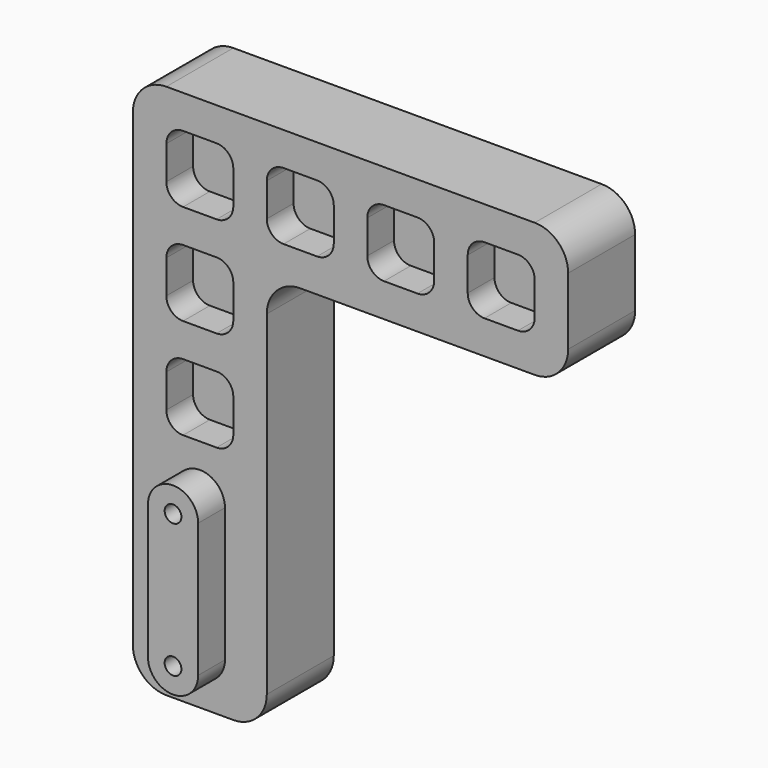
from build123d import *

# Parameters (mm, degrees)
F0_W     = 10
F0_H     = 10
F1_DEPTH = 25
F2_DEPTH = 10
F3_R     = 10
F5_DEPTH = 10
F7_D     = 5
F7_DEPTH = 11.19
F7_TIP   = 1.5021515476


with BuildPart() as f1:
    # F0 (on Front) → F1 (new body)
    with BuildSketch(Plane.XZ):
        with BuildLine():
            Line((15, -40), (0, -40))
            Line((0, -40), (0, -160))
            Line((0, -160), (40, -160))
            Line((40, -160), (40, -85))
            Line((40, -85), (40, -75))
            Line((40, -75), (40, -55))
            Line((40, -55), (40, -45))
            Line((40, -45), (40, -40))
            Line((40, -40), (25, -40))
            ThreePointArc((25, -40), (28.5355339059, -41.4644660941), (30, -45))
            Line((30, -45), (30, -55))
            ThreePointArc((30, -55), (28.5355339059, -58.5355339059), (25, -60))
            Line((25, -60), (15, -60))
            ThreePointArc((15, -60), (11.4644660941, -58.5355339059), (10, -55))
            Line((10, -55), (10, -45))
            ThreePointArc((10, -45), (11.4644660941, -41.4644660941), (15, -40))
        make_face()
        with BuildLine():
            Line((25, -90), (15, -90))
            ThreePointArc((15, -90), (11.4644660941, -88.5355339059), (10, -85))
            Line((10, -85), (10, -75))
            ThreePointArc((10, -75), (11.4644660941, -71.4644660941), (15, -70))
            Line((15, -70), (25, -70))
            ThreePointArc((25, -70), (28.5355339059, -71.4644660941), (30, -75))
            Line((30, -75), (30, -85))
            ThreePointArc((30, -85), (28.5355339059, -88.5355339059), (25, -90))
        make_face(mode=Mode.SUBTRACT)
        Polygon((40, 0), (10, 0), (10, -10), (0, -10), (0, -40), (15, -40), (25, -40), (40, -40), (40, -25), (40, -15), align=None)
        with BuildLine():
            ThreePointArc((10, -15), (11.4644660941, -11.4644660941), (15, -10))
            Line((15, -10), (25, -10))
            ThreePointArc((25, -10), (28.5355339059, -11.4644660941), (30, -15))
            Line((30, -15), (30, -25))
            ThreePointArc((30, -25), (28.5355339059, -28.5355339059), (25, -30))
            Line((25, -30), (15, -30))
            ThreePointArc((15, -30), (11.4644660941, -28.5355339059), (10, -25))
            Line((10, -25), (10, -15))
        make_face(mode=Mode.SUBTRACT)
        with Locations((5, -5)):
            Rectangle(F0_W, F0_H)
        with BuildLine():
            Line((130, 0), (40, 0))
            Line((40, 0), (40, -15))
            ThreePointArc((40, -15), (41.4644660941, -11.4644660941), (45, -10))
            Line((45, -10), (55, -10))
            ThreePointArc((55, -10), (58.5355339059, -11.4644660941), (60, -15))
            Line((60, -15), (60, -25))
            ThreePointArc((60, -25), (58.5355339059, -28.5355339059), (55, -30))
            Line((55, -30), (45, -30))
            ThreePointArc((45, -30), (41.4644660941, -28.5355339059), (40, -25))
            Line((40, -25), (40, -40))
            Line((40, -40), (45, -40))
            Line((45, -40), (55, -40))
            Line((55, -40), (75, -40))
            Line((75, -40), (85, -40))
            Line((85, -40), (105, -40))
            Line((105, -40), (115, -40))
            Line((115, -40), (130, -40))
            Line((130, -40), (130, 0))
        make_face()
        with BuildLine():
            Line((85, -30), (75, -30))
            ThreePointArc((75, -30), (71.4644660941, -28.5355339059), (70, -25))
            Line((70, -25), (70, -15))
            ThreePointArc((70, -15), (71.4644660941, -11.4644660941), (75, -10))
            Line((75, -10), (85, -10))
            ThreePointArc((85, -10), (88.5355339059, -11.4644660941), (90, -15))
            Line((90, -15), (90, -25))
            ThreePointArc((90, -25), (88.5355339059, -28.5355339059), (85, -30))
        make_face(mode=Mode.SUBTRACT)
        with BuildLine():
            Line((115, -30), (105, -30))
            ThreePointArc((105, -30), (101.4644660941, -28.5355339059), (100, -25))
            Line((100, -25), (100, -15))
            ThreePointArc((100, -15), (101.4644660941, -11.4644660941), (105, -10))
            Line((105, -10), (115, -10))
            ThreePointArc((115, -10), (118.5355339059, -11.4644660941), (120, -15))
            Line((120, -15), (120, -25))
            ThreePointArc((120, -25), (118.5355339059, -28.5355339059), (115, -30))
        make_face(mode=Mode.SUBTRACT)
        with BuildLine():
            ThreePointArc((10, -85), (11.4644660941, -88.5355339059), (15, -90))
            Line((15, -90), (25, -90))
            ThreePointArc((25, -90), (28.5355339059, -88.5355339059), (30, -85))
            Line((30, -85), (30, -75))
            ThreePointArc((30, -75), (28.5355339059, -71.4644660941), (25, -70))
            Line((25, -70), (15, -70))
            ThreePointArc((15, -70), (11.4644660941, -71.4644660941), (10, -75))
            Line((10, -75), (10, -85))
        make_face()
        with BuildLine():
            Line((25, -40), (15, -40))
            ThreePointArc((15, -40), (11.4644660941, -41.4644660941), (10, -45))
            Line((10, -45), (10, -55))
            ThreePointArc((10, -55), (11.4644660941, -58.5355339059), (15, -60))
            Line((15, -60), (25, -60))
            ThreePointArc((25, -60), (28.5355339059, -58.5355339059), (30, -55))
            Line((30, -55), (30, -45))
            ThreePointArc((30, -45), (28.5355339059, -41.4644660941), (25, -40))
        make_face()
        with BuildLine():
            Line((25, -10), (15, -10))
            ThreePointArc((15, -10), (11.4644660941, -11.4644660941), (10, -15))
            Line((10, -15), (10, -25))
            ThreePointArc((10, -25), (11.4644660941, -28.5355339059), (15, -30))
            Line((15, -30), (25, -30))
            ThreePointArc((25, -30), (28.5355339059, -28.5355339059), (30, -25))
            Line((30, -25), (30, -15))
            ThreePointArc((30, -15), (28.5355339059, -11.4644660941), (25, -10))
        make_face()
        with BuildLine():
            ThreePointArc((45, -10), (41.4644660941, -11.4644660941), (40, -15))
            Line((40, -15), (40, -25))
            ThreePointArc((40, -25), (41.4644660941, -28.5355339059), (45, -30))
            Line((45, -30), (55, -30))
            ThreePointArc((55, -30), (58.5355339059, -28.5355339059), (60, -25))
            Line((60, -25), (60, -15))
            ThreePointArc((60, -15), (58.5355339059, -11.4644660941), (55, -10))
            Line((55, -10), (45, -10))
        make_face()
        with BuildLine():
            ThreePointArc((70, -25), (71.4644660941, -28.5355339059), (75, -30))
            Line((75, -30), (85, -30))
            ThreePointArc((85, -30), (88.5355339059, -28.5355339059), (90, -25))
            Line((90, -25), (90, -15))
            ThreePointArc((90, -15), (88.5355339059, -11.4644660941), (85, -10))
            Line((85, -10), (75, -10))
            ThreePointArc((75, -10), (71.4644660941, -11.4644660941), (70, -15))
            Line((70, -15), (70, -25))
        make_face()
        with BuildLine():
            ThreePointArc((100, -25), (101.4644660941, -28.5355339059), (105, -30))
            Line((105, -30), (115, -30))
            ThreePointArc((115, -30), (118.5355339059, -28.5355339059), (120, -25))
            Line((120, -25), (120, -15))
            ThreePointArc((120, -15), (118.5355339059, -11.4644660941), (115, -10))
            Line((115, -10), (105, -10))
            ThreePointArc((105, -10), (101.4644660941, -11.4644660941), (100, -15))
            Line((100, -15), (100, -25))
        make_face()
    extrude(amount=-F1_DEPTH)

    # F0 (on Front) → F2 (cut)
    with BuildSketch(Plane.XZ):
        with BuildLine():
            Line((25, -10), (15, -10))
            ThreePointArc((15, -10), (11.4644660941, -11.4644660941), (10, -15))
            Line((10, -15), (10, -25))
            ThreePointArc((10, -25), (11.4644660941, -28.5355339059), (15, -30))
            Line((15, -30), (25, -30))
            ThreePointArc((25, -30), (28.5355339059, -28.5355339059), (30, -25))
            Line((30, -25), (30, -15))
            ThreePointArc((30, -15), (28.5355339059, -11.4644660941), (25, -10))
        make_face()
        with BuildLine():
            ThreePointArc((45, -10), (41.4644660941, -11.4644660941), (40, -15))
            Line((40, -15), (40, -25))
            ThreePointArc((40, -25), (41.4644660941, -28.5355339059), (45, -30))
            Line((45, -30), (55, -30))
            ThreePointArc((55, -30), (58.5355339059, -28.5355339059), (60, -25))
            Line((60, -25), (60, -15))
            ThreePointArc((60, -15), (58.5355339059, -11.4644660941), (55, -10))
            Line((55, -10), (45, -10))
        make_face()
        with BuildLine():
            ThreePointArc((70, -25), (71.4644660941, -28.5355339059), (75, -30))
            Line((75, -30), (85, -30))
            ThreePointArc((85, -30), (88.5355339059, -28.5355339059), (90, -25))
            Line((90, -25), (90, -15))
            ThreePointArc((90, -15), (88.5355339059, -11.4644660941), (85, -10))
            Line((85, -10), (75, -10))
            ThreePointArc((75, -10), (71.4644660941, -11.4644660941), (70, -15))
            Line((70, -15), (70, -25))
        make_face()
        with BuildLine():
            ThreePointArc((100, -25), (101.4644660941, -28.5355339059), (105, -30))
            Line((105, -30), (115, -30))
            ThreePointArc((115, -30), (118.5355339059, -28.5355339059), (120, -25))
            Line((120, -25), (120, -15))
            ThreePointArc((120, -15), (118.5355339059, -11.4644660941), (115, -10))
            Line((115, -10), (105, -10))
            ThreePointArc((105, -10), (101.4644660941, -11.4644660941), (100, -15))
            Line((100, -15), (100, -25))
        make_face()
        with BuildLine():
            Line((25, -40), (15, -40))
            ThreePointArc((15, -40), (11.4644660941, -41.4644660941), (10, -45))
            Line((10, -45), (10, -55))
            ThreePointArc((10, -55), (11.4644660941, -58.5355339059), (15, -60))
            Line((15, -60), (25, -60))
            ThreePointArc((25, -60), (28.5355339059, -58.5355339059), (30, -55))
            Line((30, -55), (30, -45))
            ThreePointArc((30, -45), (28.5355339059, -41.4644660941), (25, -40))
        make_face()
        with BuildLine():
            ThreePointArc((10, -85), (11.4644660941, -88.5355339059), (15, -90))
            Line((15, -90), (25, -90))
            ThreePointArc((25, -90), (28.5355339059, -88.5355339059), (30, -85))
            Line((30, -85), (30, -75))
            ThreePointArc((30, -75), (28.5355339059, -71.4644660941), (25, -70))
            Line((25, -70), (15, -70))
            ThreePointArc((15, -70), (11.4644660941, -71.4644660941), (10, -75))
            Line((10, -75), (10, -85))
        make_face()
    extrude(amount=-F2_DEPTH, mode=Mode.SUBTRACT)

    # F3
    f3_edges = [f1.edges().sort_by_distance(p)[0] for p in [
        (0, 12.5, -160),
        (40, 12.5, -160),
        (40, 12.5, -40),
        (130, 12.5, -40),
        (130, 12.5, 0),
        (0, 12.5, 0),
    ]]
    fillet(f3_edges, radius=F3_R)

    # F4 (on face) → F5 (join)
    with BuildSketch(Plane.XZ):
        with BuildLine():
            ThreePointArc((12.5, -145), (14.6966991411, -150.3033008589), (20, -152.5))
            ThreePointArc((20, -152.5), (25.3033008589, -150.3033008589), (27.5, -145))
            Line((27.5, -145), (27.5, -105))
            ThreePointArc((27.5, -105), (20, -97.5), (12.5, -105))
            Line((12.5, -105), (12.5, -145))
        make_face()
    extrude(amount=F5_DEPTH)

    # F7
    with Locations(Plane.XZ.offset(10)):
        with Locations((20, -105), (20, -145)):
            Hole(F7_D / 2, depth=F7_DEPTH)
            with Locations((0, 0, -(F7_DEPTH + F7_TIP / 2))):  # 118° drill point
                Cone(0, F7_D / 2, F7_TIP, mode=Mode.SUBTRACT)


solid = f1.part
